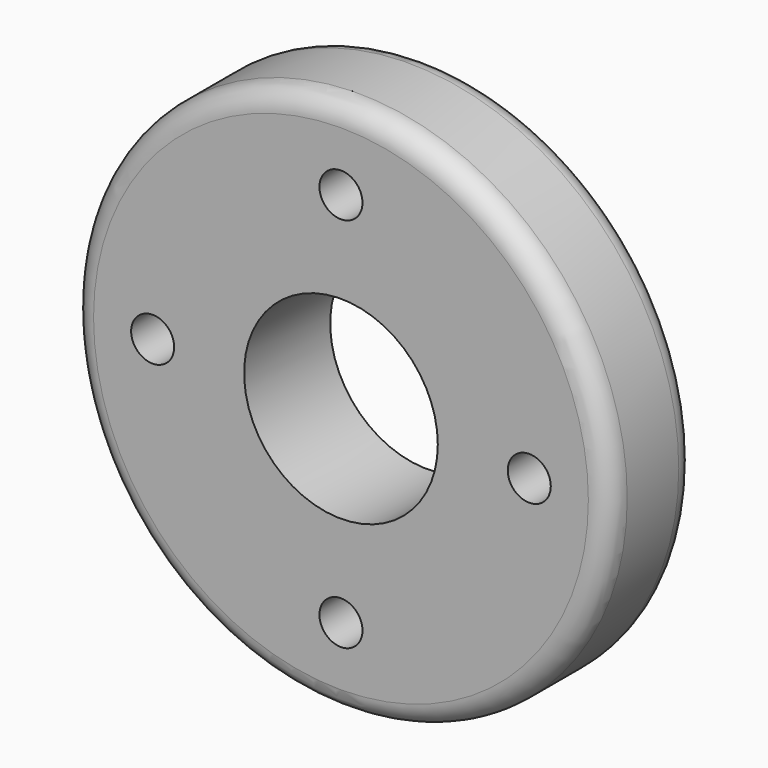
from build123d import *

# Parameters (mm, degrees)
F0_R     = 25
F0_R_2   = 2
F0_R_3   = 9
F1_DEPTH = 10
F2_R     = 2.0066


with BuildPart() as f1:
    # F0 (on Front) → F1 (new body)
    with BuildSketch(Plane.XZ):
        Circle(F0_R)
        with Locations((0, -17.5)):
            Circle(F0_R_2, mode=Mode.SUBTRACT)
        with Locations((-17.5, 0)):
            Circle(F0_R_2, mode=Mode.SUBTRACT)
        Circle(F0_R_3, mode=Mode.SUBTRACT)
        with Locations((17.5, 0)):
            Circle(F0_R_2, mode=Mode.SUBTRACT)
        with Locations((0, 17.5)):
            Circle(F0_R_2, mode=Mode.SUBTRACT)
    extrude(amount=F1_DEPTH)

    # F2
    f2_edges = [f1.edges().sort_by_distance(p)[0] for p in [
        (25, -5, 0),
        (-25, 0, 0),
        (-25, -10, 0),
    ]]
    fillet(f2_edges, radius=F2_R)


solid = f1.part
